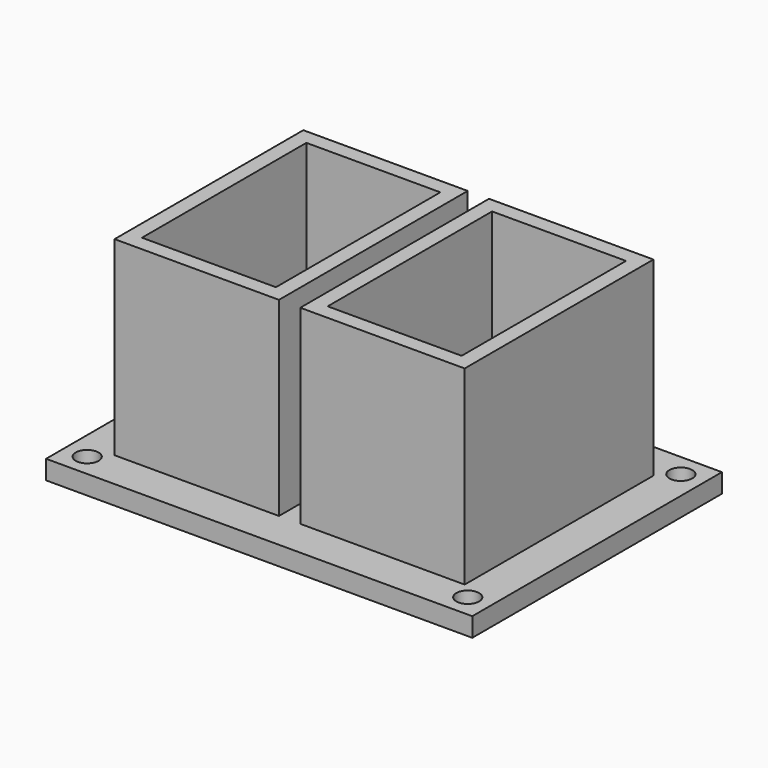
from build123d import *

# Parameters (mm, degrees)
F0_W     = 56
F0_H     = 41
F0_R     = 1.5
F1_DEPTH = 2.5
F2_W     = 21.6
F2_H     = 31
F2_W_2   = 17.6
F2_H_2   = 27
F3_DEPTH = 25


with BuildPart() as f1:
    # F0 (on Top) → F1 (new body)
    with BuildSketch(Plane.XY):
        Rectangle(F0_W, F0_H)
        with Locations((-25, -17.5)):
            Circle(F0_R, mode=Mode.SUBTRACT)
        with Locations((25, -17.5)):
            Circle(F0_R, mode=Mode.SUBTRACT)
        Polygon((-21, -13.5), (-21, 13.5), (-3.4, 13.5), (-3.4, 0), (-3.4, -13.5), align=None, mode=Mode.SUBTRACT)
        with Locations((-25, 17.5)):
            Circle(F0_R, mode=Mode.SUBTRACT)
        Polygon((3.4, 13.5), (21, 13.5), (21, -13.5), (3.4, -13.5), (3.4, 0), align=None, mode=Mode.SUBTRACT)
        with Locations((25, 17.5)):
            Circle(F0_R, mode=Mode.SUBTRACT)
    extrude(amount=F1_DEPTH)

    # F2 (on face) → F3 (join)
    with BuildSketch(Plane.XY.offset(2.5)):
        with Locations((-12.2, 0)):
            Rectangle(F2_W, F2_H)
        with Locations((-12.2, 0)):
            Rectangle(F2_W_2, F2_H_2, mode=Mode.SUBTRACT)
        with Locations((12.2, 0)):
            Rectangle(F2_W, F2_H)
        with Locations((12.2, 0)):
            Rectangle(F2_W_2, F2_H_2, mode=Mode.SUBTRACT)
    extrude(amount=F3_DEPTH)


solid = f1.part
